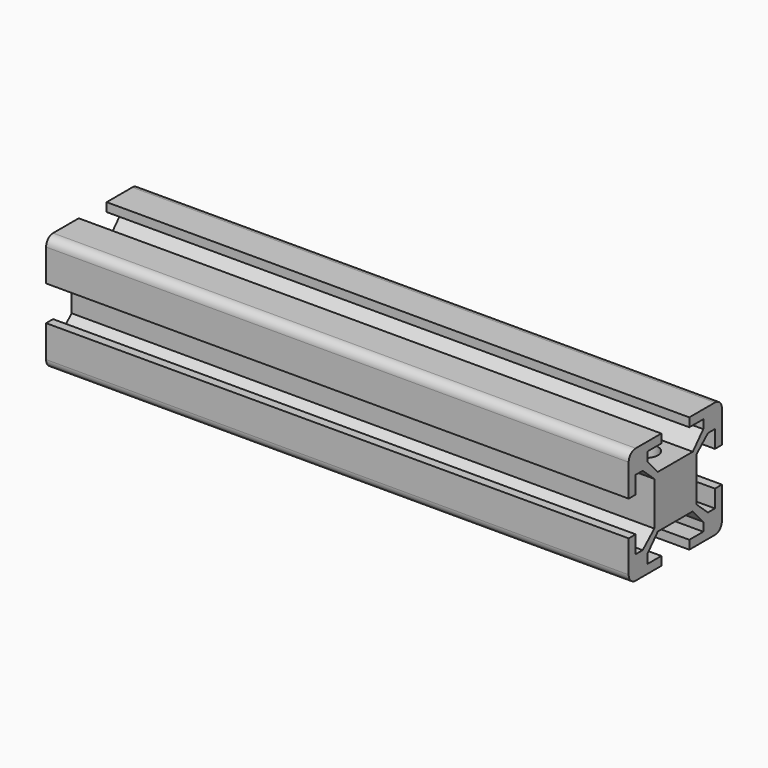
from build123d import *

# Parameters (mm, degrees)
F1_DEPTH = 100
F2_R     = 2
F2_R_2   = 1
F3_DEPTH = 14.501


with BuildPart() as f1:
    # F0 (on Right) → F1 (new body)
    with BuildSketch(Plane.YZ):
        with BuildLine():
            ThreePointArc((10, 8.5), (9.56066, 9.56066), (8.5, 10))
            Line((8.5, 10), (3, 10))
            Line((3, 10), (3, 8.5))
            Line((3, 8.5), (6, 8.5))
            Line((6, 8.5), (6, 7))
            Line((6, 7), (3.75, 4.5))
            Line((3.75, 4.5), (0, 4.5))
            Line((0, 4.5), (-3.75, 4.5))
            Line((-3.75, 4.5), (-6, 7))
            Line((-6, 7), (-6, 8.5))
            Line((-6, 8.5), (-3, 8.5))
            Line((-3, 8.5), (-3, 10))
            Line((-3, 10), (-8.5, 10))
            ThreePointArc((-8.5, 10), (-9.56066, 9.56066), (-10, 8.5))
            Line((-10, 8.5), (-10, 3))
            Line((-10, 3), (-8.5, 3))
            Line((-8.5, 3), (-8.5, 6))
            Line((-8.5, 6), (-7, 6))
            Line((-7, 6), (-4.5, 3.75))
            Line((-4.5, 3.75), (-4.5, 0))
            Line((-4.5, 0), (-4.5, -3.75))
            Line((-4.5, -3.75), (-7, -6))
            Line((-7, -6), (-8.5, -6))
            Line((-8.5, -6), (-8.5, -3))
            Line((-8.5, -3), (-10, -3))
            Line((-10, -3), (-10, -8.5))
            ThreePointArc((-10, -8.5), (-9.56066, -9.56066), (-8.5, -10))
            Line((-8.5, -10), (-3, -10))
            Line((-3, -10), (-3, -8.5))
            Line((-3, -8.5), (-6, -8.5))
            Line((-6, -8.5), (-6, -7))
            Line((-6, -7), (-3.75, -4.5))
            Line((-3.75, -4.5), (0, -4.5))
            Line((0, -4.5), (3.75, -4.5))
            Line((3.75, -4.5), (6, -7))
            Line((6, -7), (6, -8.5))
            Line((6, -8.5), (3, -8.5))
            Line((3, -8.5), (3, -10))
            Line((3, -10), (8.5, -10))
            ThreePointArc((8.5, -10), (9.56066, -9.56066), (10, -8.5))
            Line((10, -8.5), (10, -3))
            Line((10, -3), (8.5, -3))
            Line((8.5, -3), (8.5, -6))
            Line((8.5, -6), (7, -6))
            Line((7, -6), (4.5, -3.75))
            Line((4.5, -3.75), (4.5, 0))
            Line((4.5, 0), (4.5, 3.75))
            Line((4.5, 3.75), (7, 6))
            Line((7, 6), (8.5, 6))
            Line((8.5, 6), (8.5, 3))
            Line((8.5, 3), (10, 3))
            Line((10, 3), (10, 8.5))
        make_face()
    extrude(amount=F1_DEPTH)

    # F2 (on face) → F3 (cut, through all)
    with BuildSketch(Plane.XY.offset(4.5)):
        with Locations((86, 0)):
            Circle(F2_R)
        with Locations((95, 0)):
            Circle(F2_R)
        with Locations((40, 0)):
            Circle(F2_R_2)
    extrude(amount=-F3_DEPTH, mode=Mode.SUBTRACT)


solid = f1.part
